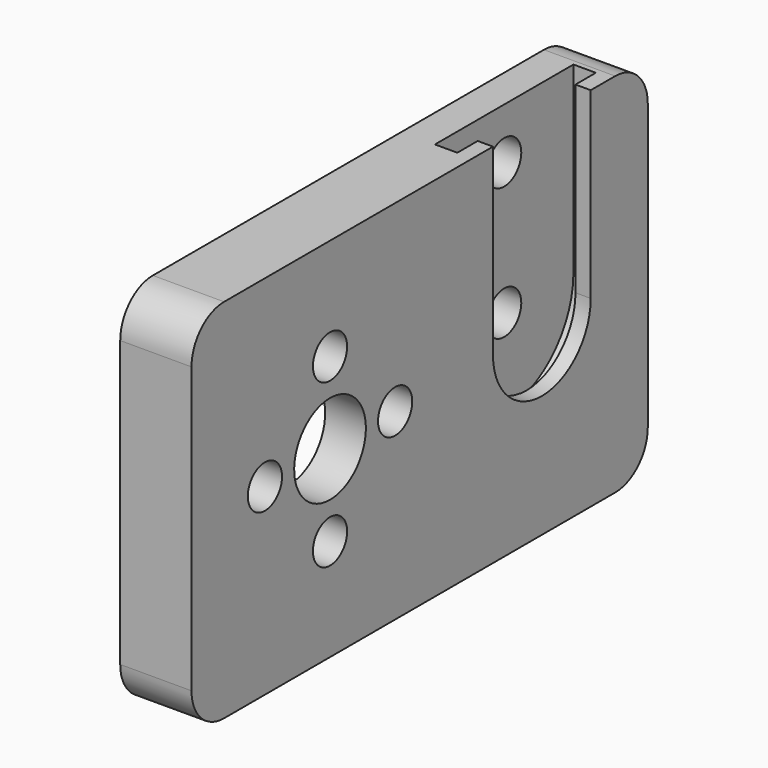
from build123d import *

# Parameters (mm, degrees)
CYLINDER018_R               = 14.5
CYLINDER018_DEPTH           = 20
CYLINDER114_R               = 2.1
CYLINDER114_DEPTH           = 30
ARRAY001010_X_COUNT         = 2
ARRAY001010_X_PITCH         = 11.3
ARRAY001010_Y_COUNT         = 2
ARRAY001010_Y_PITCH         = 11.3
COMPOUND005_PLACEMENT_ANGLE = 45
CYLINDER012_R               = 4.4
CYLINDER012_DEPTH           = 40
FUSION004_PLACEMENT_ANGLE   = 90
CYLINDER111_R               = 6
CYLINDER111_DEPTH           = 60
BOX011_W                    = 50
BOX011_H                    = 17
BOX011_DEPTH                = 2.2
BOX012_W                    = 50
BOX012_H                    = 12
BOX012_DEPTH                = 60
CYLINDER113_R               = 2.1
CYLINDER113_DEPTH           = 20
ARRAY001019_X_COUNT         = 2
ARRAY001019_X_PITCH         = 13
CYLINDER112_R               = 8.5
CYLINDER112_DEPTH           = 2.2
FUSION013_PLACEMENT_ANGLE   = 90
BOX010_W                    = 7
BOX010_H                    = 56
BOX010_DEPTH                = 36
FILLET005_R                 = 4


with BuildPart() as backlash_nut_disk_hole:
    # Cylinder018 → Cylinder018 (new body)
    with BuildSketch(Plane.XY.offset(-23)):
        Circle(CYLINDER018_R)
    extrude(amount=CYLINDER018_DEPTH)


with BuildPart() as backlash_insert_holes_compound:
    # Cylinder114 → Cylinder114 (new body)
    with BuildSketch(Plane.XY.offset(-20)):
        Circle(CYLINDER114_R)
    extrude(amount=CYLINDER114_DEPTH)

    # Array001010 X: backlash insert holes compound ×2


with BuildPart() as backlash_insert_holes_compound_1:
    add(backlash_insert_holes_compound.part)
    with Locations(*[(i * ARRAY001010_X_PITCH, 0, 0) for i in range(1, ARRAY001010_X_COUNT)]):
        add(backlash_insert_holes_compound.part)

    # Array001010 Y: backlash insert holes compound ×2


with BuildPart() as backlash_insert_holes_compound_2:
    add(backlash_insert_holes_compound_1.part)
    with Locations(*[(0, i * ARRAY001010_Y_PITCH, 0) for i in range(1, ARRAY001010_Y_COUNT)]):
        add(backlash_insert_holes_compound_1.part)


with BuildPart() as backlash_insert_holes_compound_3:
    # Array001010 placement: moved
    add(backlash_insert_holes_compound_2.part.moved(Location((-5.65, -5.65, 0))))


with BuildPart() as backlash_insert_holes_compound_4:
    # Compound005 placement: moved
    add(backlash_insert_holes_compound_3.part.rotate(Axis((0, 0, 0), (0, 0, 1)), COMPOUND005_PLACEMENT_ANGLE))


with BuildPart() as nut_disk_hole_union:
    # Cylinder012 → Cylinder012 (new body)
    with BuildSketch(Plane.XY.offset(-20)):
        Circle(CYLINDER012_R)
    extrude(amount=CYLINDER012_DEPTH)

    # Fusion004: union backlash nut disk hole, backlash insert holes compound
    add(backlash_nut_disk_hole.part)
    add(backlash_insert_holes_compound_4.part)


with BuildPart() as nut_disk_hole_union_1:
    # Fusion004 placement: moved
    add(nut_disk_hole_union.part.moved(Location((6, 17, 16))).rotate(Axis((6, 17, 16), (0, 1, 0)), FUSION004_PLACEMENT_ANGLE))


with BuildPart() as syringe_pusher_body_extract:
    # Cylinder111 → Cylinder111 (new body)
    with BuildSketch(Plane.XY):
        Circle(CYLINDER111_R)
    extrude(amount=CYLINDER111_DEPTH)


with BuildPart() as syringe_pusher_disk_path_extract:
    # Box011 → Box011 (new body)
    with BuildSketch(Plane(origin=(0, -8.5, 60), x_dir=(1, 0, 0), z_dir=(0, 0, 1))):
        with Locations((25, 8.5)):
            Rectangle(BOX011_W, BOX011_H)
    extrude(amount=BOX011_DEPTH)


with BuildPart() as syringe_pusher_body_path_extract:
    # Box012 → Box012 (new body)
    with BuildSketch(Plane(origin=(0, -6, 0), x_dir=(1, 0, 0), z_dir=(0, 0, 1))):
        with Locations((25, 6)):
            Rectangle(BOX012_W, BOX012_H)
    extrude(amount=BOX012_DEPTH)


with BuildPart() as syringe_pusher_insert_hole_extract_array:
    # Cylinder113 → Cylinder113 (new body)
    with BuildSketch(Plane.XY.offset(60)):
        Circle(CYLINDER113_R)
    extrude(amount=CYLINDER113_DEPTH)

    # Array001019 X: syringe pusher insert hole extract array ×2


with BuildPart() as syringe_pusher_insert_hole_extract_array_1:
    add(syringe_pusher_insert_hole_extract_array.part)
    with Locations(*[(i * ARRAY001019_X_PITCH, 0, 0) for i in range(1, ARRAY001019_X_COUNT)]):
        add(syringe_pusher_insert_hole_extract_array.part)


with BuildPart() as middle_block_extract_fusion:
    # Cylinder112 → Cylinder112 (new body)
    with BuildSketch(Plane.XY.offset(60)):
        Circle(CYLINDER112_R)
    extrude(amount=CYLINDER112_DEPTH)

    # Fusion013: union syringe pusher body extract, syringe pusher disk path extract, syringe pusher body path extract, syringe pusher insert hole extract array
    add(syringe_pusher_body_extract.part)
    add(syringe_pusher_disk_path_extract.part)
    add(syringe_pusher_body_path_extract.part)
    add(syringe_pusher_insert_hole_extract_array_1.part)


with BuildPart() as middle_block_extract_fusion_1:
    # Fusion013 placement: moved
    add(middle_block_extract_fusion.part.moved(Location((65.5, 43, 16))).rotate(Axis((65.5, 43, 16), (0, -1, 0)), FUSION013_PLACEMENT_ANGLE))

    # Fusion014: union nut disk hole union
    add(nut_disk_hole_union_1.part)


with BuildPart() as middle_block_cut:
    # Box010 → Box010 (new body)
    with BuildSketch(Plane.XY.offset(-2)):
        with Locations((3.5, 28)):
            Rectangle(BOX010_W, BOX010_H)
    extrude(amount=BOX010_DEPTH)

    # Fillet005
    fillet005_edges = [middle_block_cut.edges().sort_by_distance(p)[0] for p in [
        (3.5, 0, -2),
        (3.5, 0, 34),
        (3.5, 56, -2),
        (3.5, 56, 34),
    ]]
    fillet(fillet005_edges, radius=FILLET005_R)

    # Cut009: cut middle block extract fusion
    add(middle_block_extract_fusion_1.part, mode=Mode.SUBTRACT)


solid = middle_block_cut.part
